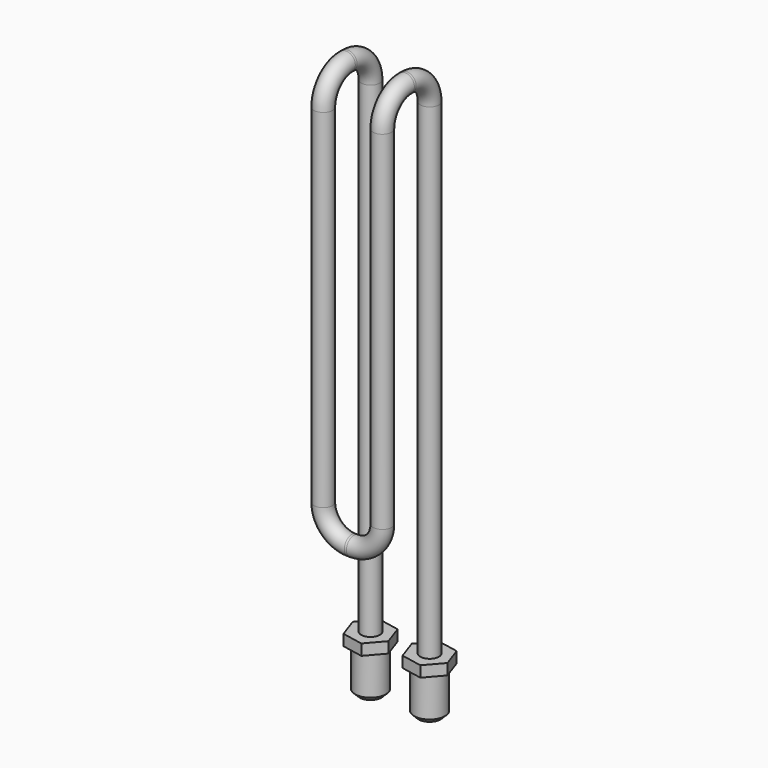
from build123d import *

# Parameters (mm, degrees)
F3_R      = 4.25
F6_FACE_R = 4.25
F10_DEPTH = 5
F11_R     = 7
F12_DEPTH = 25
F13_SIZE  = 2


with BuildPart() as f6:
    # F6: sweep along a path in F0
    with BuildLine(Plane.XZ) as f6_path:
        Line((-13.5, 0), (-13.5, 222))
    # F3 (on Top) → F6 (sweep)
    with BuildSketch(Plane.XY):
        with Locations((-13.5, 0)):
            Circle(F3_R)
    sweep(path=f6_path.line)

    # F7: sweep along a path in F2, F5
    with BuildLine(Plane(origin=(-13.5, 0, 0), x_dir=(0, -1, 0), z_dir=(-1, 0, 0))) as f7_path:
        ThreePointArc((0, 222), (3.8076118446, 231.1923881554), (13, 235))
        Line((13, 235), (14, 235))
        ThreePointArc((14, 235), (23.1923881554, 231.1923881554), (27, 222))
        Line((27, 222), (27, 68.6373621219))
    with BuildLine(Plane(origin=(0, -27, 0), x_dir=(-1, 0, 0), z_dir=(0, 1, 0))) as f7_path_2:
        Line((13.5, 68.6373621219), (13.5, 63))
        ThreePointArc((13.5, 63), (9.6923881554, 53.8076118446), (0.5, 50))
        Line((0.5, 50), (0, 50))
    # F6_face (on face) → F7 (sweep)
    with BuildSketch(Plane(origin=(-13.5, 0, 222), x_dir=(1, 0, 0), z_dir=(0, 0, 1))):
        Circle(F6_FACE_R)
    sweep(path=f7_path.line + f7_path_2.line)

    # F8: F6 across plane


with BuildPart() as f6_1:
    add(f6.part)
    add(f6.part.mirror(Plane.YZ))

    # F9 (on Top) → F10 (join)
    with BuildSketch(Plane.XY):
        Polygon((-7.0634663631, 7.4122992493), (-16.6995036456, 9.2778069077), (-23.13309931, 1.8655076584), (-19.9306576918, -7.4122992493), (-10.2946204093, -9.2778069077), (-3.861024745, -1.8655076584), align=None)
        Polygon((19.9335956644, 7.4122992493), (10.2975583819, 9.2778069077), (3.8639627175, 1.8655076584), (7.0664043356, -7.4122992493), (16.7024416181, -9.2778069077), (23.1360372825, -1.8655076584), align=None)
    extrude(amount=-F10_DEPTH)

    # F11 (on Top) → F12 (join)
    with BuildSketch(Plane.XY):
        with Locations((-13.5, 0)):
            Circle(F11_R)
        with Locations((13.5, 0)):
            Circle(F11_R)
    extrude(amount=-F12_DEPTH)

    # F13
    f13_edges = [f6_1.edges().sort_by_distance(p)[0] for p in [
        (-20.5, 0, -25),
        (6.5, 0, -25),
    ]]
    chamfer(f13_edges, length=F13_SIZE)


solid = f6_1.part
